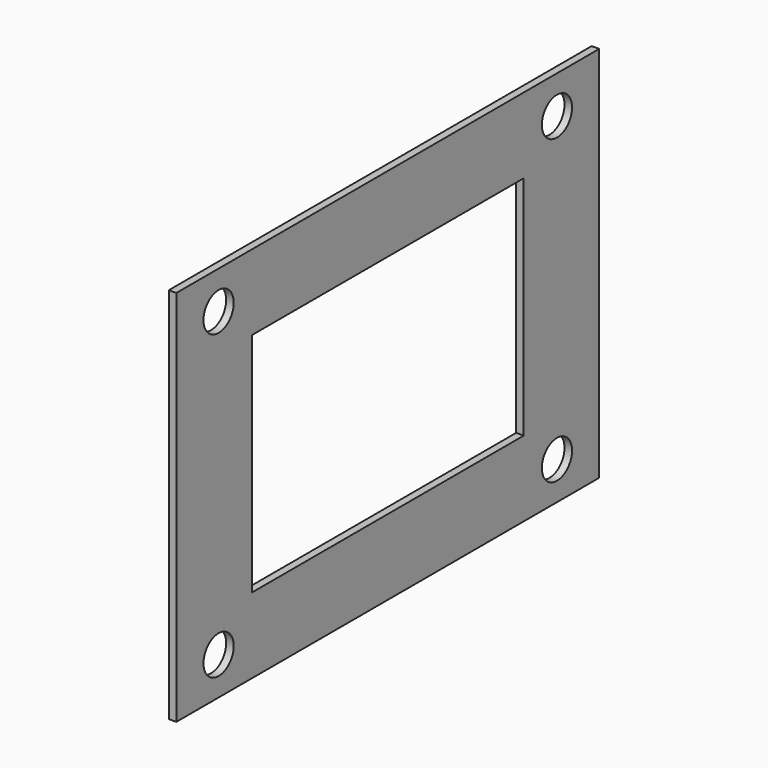
from build123d import *

# Parameters (mm, degrees)
F0_W          = 70
F0_H          = 50
F0_W_2        = 45
F0_H_2        = 30
F1_DEPTH      = 0.5
F1_DEPTH_BACK = 0.5
F2_R          = 2.5
F3_DEPTH      = 2


with BuildPart() as f1:
    # F0 (on Right) → F1 (new body, two sides)
    with BuildSketch(Plane.YZ) as f1_sk:
        Rectangle(F0_W, F0_H)
        Rectangle(F0_W_2, F0_H_2, mode=Mode.SUBTRACT)
    extrude(amount=F1_DEPTH)
    extrude(f1_sk.sketch, amount=-F1_DEPTH_BACK)

    # F2 (on face) → F3 (cut)
    with BuildSketch(Plane.YZ.offset(0.5)):
        with Locations((-28, 20)):
            Circle(F2_R)
        with Locations((28, 20)):
            Circle(F2_R)
        with Locations((-28, -20)):
            Circle(F2_R)
        with Locations((28, -20)):
            Circle(F2_R)
    extrude(amount=-F3_DEPTH, mode=Mode.SUBTRACT)


solid = f1.part
